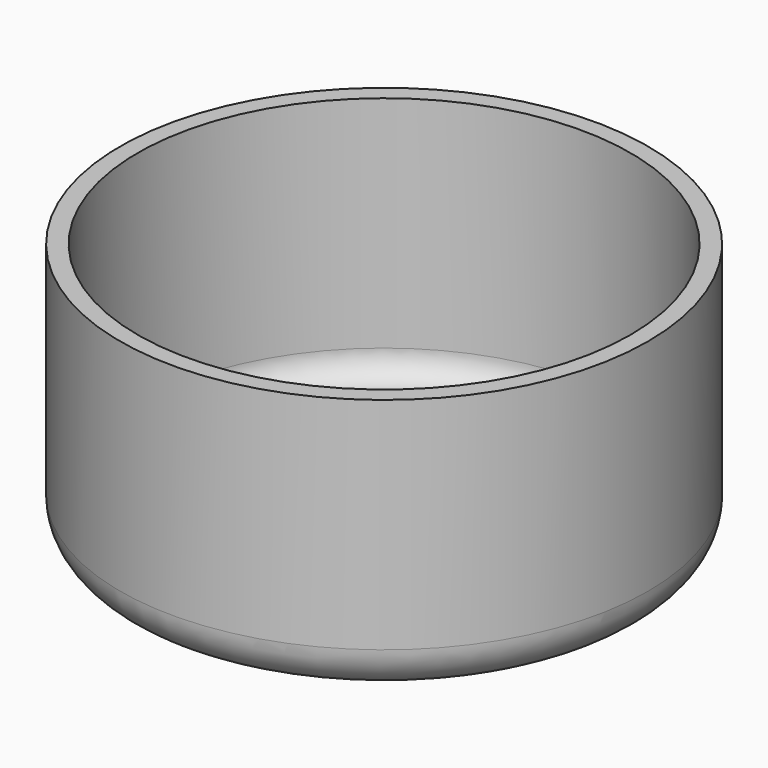
from build123d import *

# Parameters (mm, degrees)
F2_T = -2.54


with BuildPart() as f1:
    # F0 (on Front) → F1 (revolve)
    with BuildSketch(Plane.XZ):
        with BuildLine():
            Line((0, 38.1), (0, 0))
            Line((0, 0), (31.75, 0))
            ThreePointArc((31.75, 0), (36.240128, 1.859872), (38.1, 6.35))
            Line((38.1, 6.35), (38.1, 38.1))
            Line((38.1, 38.1), (0, 38.1))
        make_face()
    revolve(axis=Axis((0, 0, 22.184535), (0, 0, 1)))

    # F2
    f2_openings = [f1.faces().sort_by_distance(p)[0] for p in [
        (0, 0, 38.1),
    ]]
    offset(amount=F2_T, openings=f2_openings)


solid = f1.part
